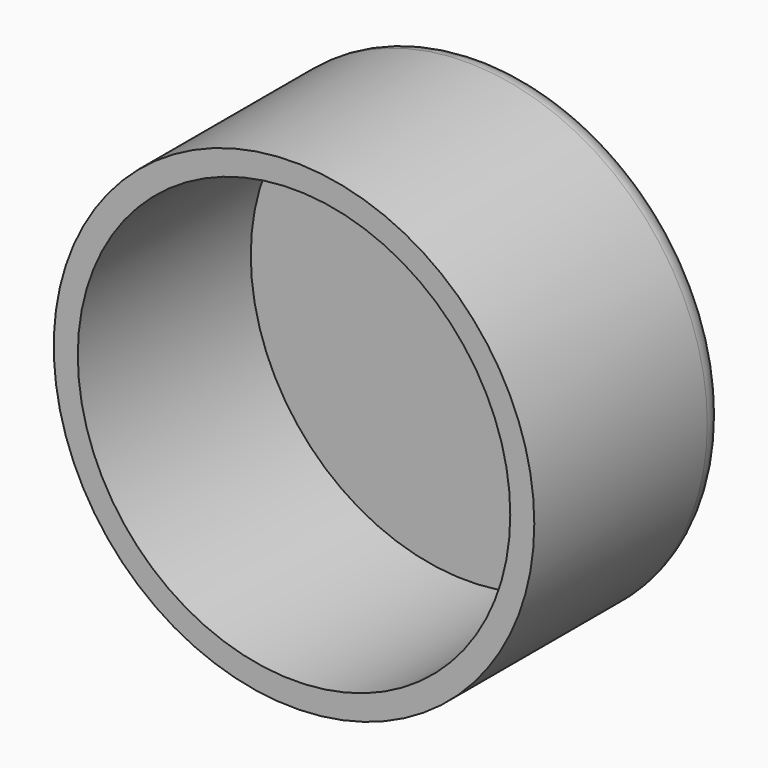
from build123d import *

# Parameters (mm, degrees)
F0_R     = 20
F1_DEPTH = 20
F2_T     = -2
F3_R     = 2


with BuildPart() as f1:
    # F0 (on Front) → F1 (new body)
    with BuildSketch(Plane.XZ):
        Circle(F0_R)
    extrude(amount=F1_DEPTH)

    # F2
    f2_openings = [f1.faces().sort_by_distance(p)[0] for p in [
        (0, -20, 0),
    ]]
    offset(amount=F2_T, openings=f2_openings)

    # F3
    f3_edges = [f1.edges().sort_by_distance(p)[0] for p in [
        (-20, 0, 0),
    ]]
    fillet(f3_edges, radius=F3_R)


solid = f1.part
